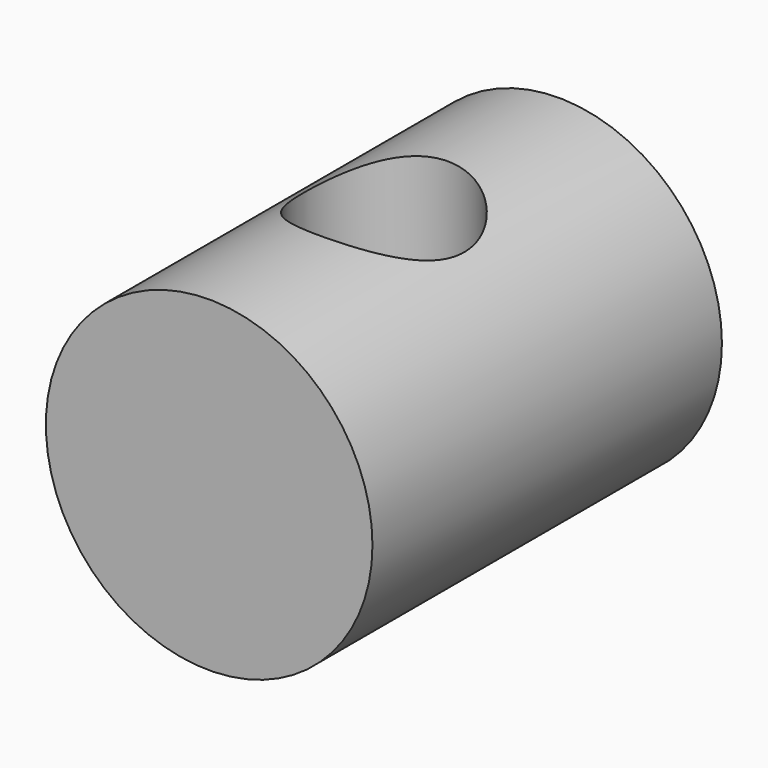
from build123d import *

# Parameters (mm, degrees)
F0_R     = 5.08
F1_DEPTH = 6.7945
F4_D     = 5


with BuildPart() as f1:
    # F0 (on Front) → F1 (new body, symmetric)
    with BuildSketch(Plane.XZ):
        Circle(F0_R)
    extrude(amount=F1_DEPTH, both=True)

    # F4 (through all)
    with Locations(Plane(origin=(0, 0, -10.16), x_dir=(1, 0, 0), z_dir=(0, 0, -1))):
        with Locations((0, 0)):
            Hole(F4_D / 2)


solid = f1.part
